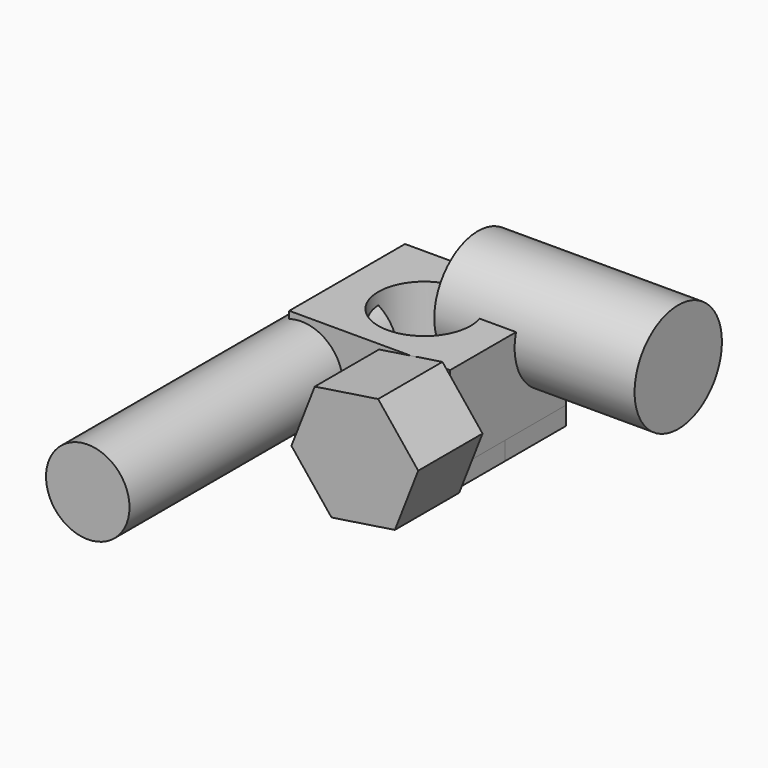
from build123d import *

# Parameters (mm, degrees)
F1_DEPTH = 33.6
F0_R     = 14.3467874304
F2_DEPTH = 27.9
F3_R     = 16.9763209657
F4_DEPTH = 62.3
F5_R     = 12.9854580223
F6_DEPTH = 104.3
F8_DEPTH = 25


with BuildPart() as f1:
    # F0 (on Top) → F1 (new body)
    with BuildSketch(Plane.XY):
        Polygon((-1.8626e-06, 23.6883324424), (-25.0000018626, 23.6883324424), (-25.0000018626, 0), align=None)
    extrude(amount=-F1_DEPTH)


with BuildPart() as f1b:
    # F0 (on Top) → F1, piece 2 (new body)
    with BuildSketch(Plane.XY):
        Polygon((24.9999981374, 23.6883324424), (-1.8626e-06, 23.6883324424), (24.9999981374, 0), align=None)
    extrude(amount=-F1_DEPTH)


with BuildPart() as f1c:
    # F0 (on Top) → F1, piece 3 (new body)
    with BuildSketch(Plane.XY):
        Polygon((-1.8626e-06, -21.3116675576), (-25.0000018626, 0), (-25.0000018626, -21.3116675576), align=None)
    extrude(amount=-F1_DEPTH)


with BuildPart() as f1d:
    # F0 (on Top) → F1, piece 4 (new body)
    with BuildSketch(Plane.XY):
        Polygon((24.9999981374, -21.3116675576), (24.9999981374, 0), (-1.8626e-06, -21.3116675576), align=None)
    extrude(amount=-F1_DEPTH)


with BuildPart() as f2:
    # F0 (on Top) → F2 (new body)
    with BuildSketch(Plane.XY):
        Polygon((-1.8626e-06, 23.6883324424), (-25.0000018626, 23.6883324424), (-25.0000018626, 0), align=None)
        Polygon((24.9999981374, 0), (-1.8626e-06, 23.6883324424), (-25.0000018626, 0), (-1.8626e-06, -21.3116675576), align=None)
        Circle(F0_R, mode=Mode.SUBTRACT)
        Polygon((24.9999981374, 23.6883324424), (-1.8626e-06, 23.6883324424), (24.9999981374, 0), align=None)
        Polygon((-1.8626e-06, -21.3116675576), (-25.0000018626, 0), (-25.0000018626, -21.3116675576), align=None)
        Polygon((24.9999981374, -21.3116675576), (24.9999981374, 0), (-1.8626e-06, -21.3116675576), align=None)
    extrude(amount=-F2_DEPTH)


with BuildPart() as f4:
    # F3 (on Right) → F4 (new body)
    with BuildSketch(Plane.YZ):
        with Locations((20.7892358303, -4.1195256636)):
            Circle(F3_R)
    extrude(amount=F4_DEPTH)


with BuildPart() as f6:
    # F5 (on Front) → F6 (new body)
    with BuildSketch(Plane.XZ):
        with Locations((-21.2712734938, -14.6578475833)):
            Circle(F5_R)
    extrude(amount=F6_DEPTH)


with BuildPart() as f8:
    # F7 (on face) → F8 (new body)
    with BuildSketch(Plane.XZ.offset(21.3116675576)):
        Polygon((22.6479356358, 1.503792345), (2.9341916372, -1.503792345), (-4.3180356165, -20.0801877965), (8.1434811284, -35.648998558), (27.857225127, -32.641413868), (35.1094523807, -14.0650184165), align=None)
    extrude(amount=F8_DEPTH)


solid = Compound([f1.part, f1b.part, f1c.part, f1d.part, f2.part, f4.part, f6.part, f8.part])
